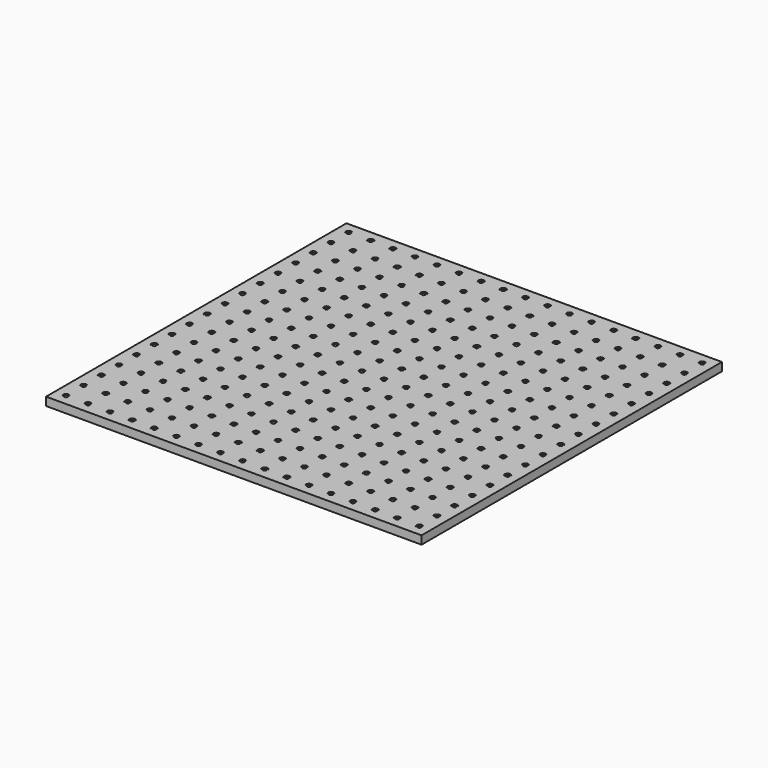
from build123d import *

# Parameters (mm, degrees)
F0_W           = 863.6
F0_H           = 863.6
F1_DEPTH       = 19.05
F3_D           = 7.9375
F3_CBORE_D     = 12.954
F3_CBORE_DEPTH = 1.27
F4_D           = 7.9375
F4_CBORE_D     = 12.954
F4_CBORE_DEPTH = 1.27
F5_D           = 7.9375
F5_CBORE_D     = 12.954
F5_CBORE_DEPTH = 1.27
F6_D           = 7.9375
F6_CBORE_D     = 12.954
F6_CBORE_DEPTH = 1.27


with BuildPart() as f1:
    # F0 (on Top) → F1 (new body)
    with BuildSketch(Plane.XY):
        Rectangle(F0_W, F0_H)
    extrude(amount=F1_DEPTH)

    # F3 (through all)
    with Locations(Plane.XY.offset(19.05)):
        with Locations((-203.2, -101.6), (-254, -50.8), (-254, 406.4), (-254, -406.4), (-304.8, -355.6), (-355.6, -304.8), (-203.2, 355.6), (-304.8, 203.2), (-355.6, 254), (-406.4, 304.8), (-203.2, 101.6), (-254, 152.4), (-304.8, 0), (-355.6, 50.8), (-406.4, 101.6), (-406.4, 0), (-203.2, -203.2), (-254, 304.8), (-254, -152.4), (-304.8, 355.6), (-355.6, 406.4), (-304.8, -101.6), (-355.6, -50.8), (-355.6, -406.4), (-203.2, 254), (-406.4, -203.2), (-203.2, -406.4), (-254, -355.6), (-304.8, -304.8), (-355.6, -254), (-203.2, 406.4), (-304.8, 254), (-355.6, 304.8), (-406.4, 355.6), (-203.2, 152.4), (-254, 203.2), (-304.8, 50.8), (-355.6, 101.6), (-406.4, 152.4), (-203.2, -50.8), (-254, 0), (-406.4, 50.8), (-254, 355.6), (-203.2, -152.4), (-254, -101.6), (-304.8, 406.4), (-304.8, -50.8), (-304.8, -406.4), (-355.6, 0), (-355.6, -355.6), (-203.2, 304.8), (-406.4, -406.4), (-406.4, -152.4), (-406.4, -355.6), (-203.2, -355.6), (-406.4, -304.8), (-254, -304.8), (-304.8, -254), (-355.6, -203.2), (-406.4, 406.4), (-304.8, 101.6), (-355.6, 152.4), (-406.4, 203.2), (-203.2, 0), (-254, 50.8), (-406.4, -101.6), (-203.2, -304.8), (-254, -254), (-304.8, -203.2), (-355.6, -152.4), (-304.8, 152.4), (-355.6, 203.2), (-406.4, 254), (-203.2, 50.8), (-254, 101.6), (-406.4, -50.8), (-203.2, -254), (-254, 254), (-304.8, 304.8), (-254, -203.2), (-304.8, -152.4), (-355.6, 355.6), (-355.6, -101.6), (-203.2, 203.2), (-406.4, -254)):
            CounterBoreHole(F3_D / 2, F3_CBORE_D / 2, F3_CBORE_DEPTH)

    # F4 (through all)
    with Locations(Plane.XY.offset(19.05)):
        with Locations((0, 254), (50.8, 203.2), (-152.4, -406.4), (-152.4, 406.4), (-101.6, 355.6), (-50.8, 304.8), (-152.4, -101.6), (-101.6, -152.4), (0, 0), (50.8, -50.8), (-152.4, 152.4), (-101.6, 101.6), (-50.8, 50.8), (0, 355.6), (50.8, 304.8), (-50.8, -101.6), (0, -152.4), (50.8, -203.2), (-152.4, -304.8), (-101.6, -355.6), (-50.8, -406.4), (-50.8, 406.4), (-152.4, 0), (-101.6, -50.8), (-50.8, -152.4), (0, -203.2), (50.8, -254), (0, 203.2), (50.8, 152.4), (-152.4, 355.6), (-101.6, 304.8), (-50.8, 254), (0, 152.4), (50.8, 101.6), (-50.8, -203.2), (0, -254), (50.8, -304.8), (-152.4, 304.8), (-152.4, -50.8), (-101.6, -101.6), (-101.6, 254), (-50.8, 203.2), (0, 304.8), (50.8, 254), (-152.4, -355.6), (-101.6, -406.4), (-101.6, 406.4), (-50.8, 355.6), (-50.8, -254), (0, -304.8), (50.8, -355.6), (0, 101.6), (50.8, 50.8), (-152.4, 254), (-101.6, 203.2), (-50.8, 152.4), (-50.8, 0), (0, -50.8), (50.8, -101.6), (-152.4, -152.4), (-101.6, -203.2), (-152.4, 101.6), (-101.6, 50.8), (50.8, -406.4), (50.8, 406.4), (-152.4, -203.2), (-101.6, -254), (-50.8, -304.8), (0, -355.6), (0, 50.8), (50.8, 0), (-152.4, 203.2), (-101.6, 152.4), (-50.8, 101.6), (0, 406.4), (50.8, 355.6), (-152.4, -254), (-50.8, -50.8), (0, -101.6), (-101.6, -304.8), (-50.8, -355.6), (50.8, -152.4), (0, -406.4), (-152.4, 50.8), (-101.6, 0)):
            CounterBoreHole(F4_D / 2, F4_CBORE_D / 2, F4_CBORE_DEPTH)

    # F5 (through all)
    with Locations(Plane.XY.offset(19.05)):
        with Locations((101.6, 152.4), (152.4, 101.6), (203.2, 0), (203.2, -203.2), (254, -254), (304.8, -304.8), (101.6, -101.6), (152.4, -152.4), (304.8, 254), (152.4, -304.8), (254, -50.8), (203.2, -355.6), (304.8, -101.6), (254, -406.4), (254, 406.4), (101.6, 254), (152.4, 203.2), (101.6, -254), (304.8, 355.6), (203.2, 101.6), (254, 50.8), (304.8, 0), (152.4, -406.4), (101.6, 101.6), (152.4, 50.8), (203.2, -50.8), (254, -101.6), (304.8, -152.4), (101.6, 50.8), (152.4, 406.4), (203.2, 355.6), (254, 304.8), (152.4, 0), (101.6, -355.6), (101.6, -304.8), (304.8, 203.2), (304.8, 304.8), (152.4, -355.6), (203.2, -406.4), (101.6, 203.2), (152.4, 152.4), (203.2, 406.4), (254, 355.6), (203.2, 50.8), (254, 0), (304.8, -50.8), (101.6, 406.4), (152.4, 355.6), (203.2, 304.8), (254, 254), (101.6, -406.4), (203.2, -101.6), (254, -152.4), (304.8, -203.2), (101.6, 0), (152.4, -50.8), (152.4, -203.2), (203.2, -254), (254, -304.8), (304.8, -355.6), (203.2, 254), (254, 203.2), (304.8, 152.4), (101.6, -152.4), (203.2, -152.4), (254, -203.2), (101.6, 355.6), (152.4, 304.8), (304.8, -254), (203.2, 203.2), (254, 152.4), (304.8, 101.6), (101.6, -50.8), (152.4, -101.6), (304.8, 406.4), (152.4, -254), (203.2, -304.8), (254, -355.6), (101.6, 304.8), (152.4, 254), (304.8, -406.4), (101.6, -203.2), (203.2, 152.4), (254, 101.6), (304.8, 50.8)):
            CounterBoreHole(F5_D / 2, F5_CBORE_D / 2, F5_CBORE_DEPTH)

    # F6 (through all)
    with Locations(Plane.XY.offset(19.05)):
        with Locations((406.4, 304.8), (355.6, 355.6), (406.4, 406.4), (406.4, -406.4), (355.6, -304.8), (406.4, -152.4), (406.4, 203.2), (355.6, 254), (355.6, -50.8), (406.4, 254), (406.4, -101.6), (355.6, 304.8), (355.6, -203.2), (406.4, 355.6), (355.6, 406.4), (355.6, -406.4), (355.6, 50.8), (406.4, 0), (406.4, -355.6), (355.6, 0), (355.6, -254), (406.4, -304.8), (406.4, -254), (355.6, 101.6), (406.4, 50.8), (355.6, -152.4), (406.4, 101.6), (355.6, 152.4), (355.6, -355.6), (406.4, -203.2), (406.4, 152.4), (355.6, 203.2), (355.6, -101.6), (406.4, -50.8)):
            CounterBoreHole(F6_D / 2, F6_CBORE_D / 2, F6_CBORE_DEPTH)


solid = f1.part
